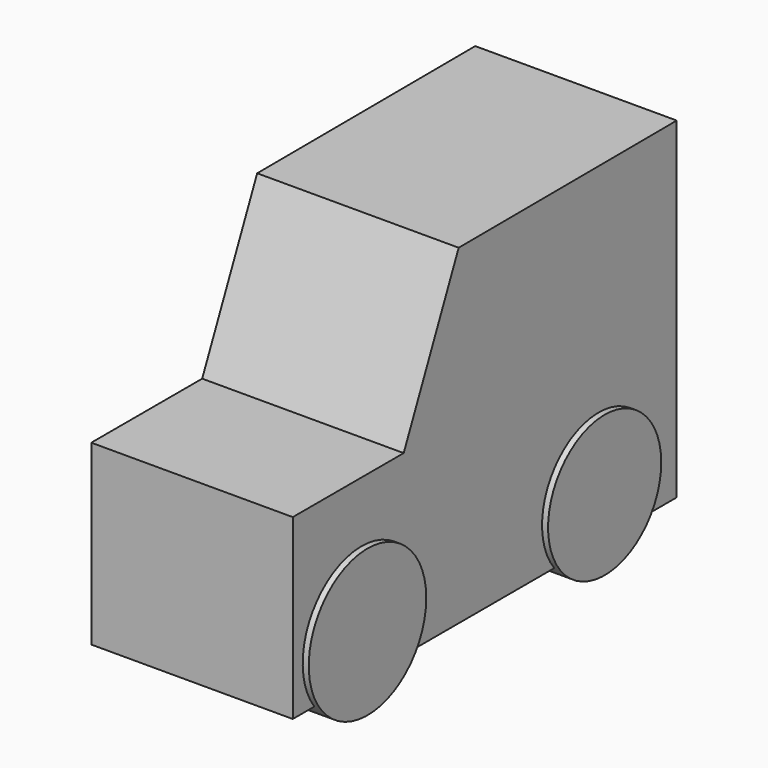
from build123d import *

# Parameters (mm, degrees)
F1_DEPTH = 12.5
F2_R     = 9.1118495461
F2_R_2   = 8.7709801572
F3_DEPTH = 13.2479583845


with BuildPart() as f1:
    # F0 (on Right) → F1 (new body, symmetric)
    with BuildSketch(Plane.YZ):
        Polygon((25.6182104349, -14.181278646), (25.6182104349, 26.9834250212), (-8.1956535578, 26.8364101648), (-16.7226195335, 7.8712403774), (-33.9235812426, 7.8712403774), (-33.9235812426, -14.181278646), align=None)
    extrude(amount=F1_DEPTH, both=True)

    # F2 (on Right) → F3 (join, symmetric)
    with BuildSketch(Plane.YZ):
        with Locations((-23.2708677649, -8.7504684925)):
            Circle(F2_R)
        with Locations((13.5083943605, -8.7504684925)):
            Circle(F2_R_2)
    extrude(amount=F3_DEPTH, both=True)


solid = f1.part
